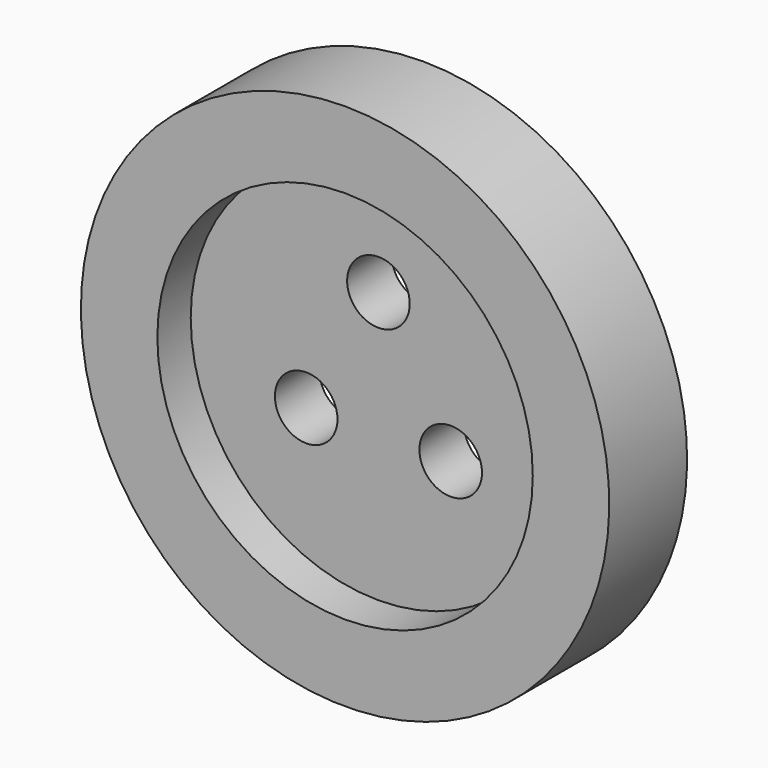
from build123d import *

# Parameters (mm, degrees)
F3_D = 4.5


with BuildPart() as f1:
    # F0 (on Right) → F1 (revolve)
    with BuildSketch(Plane.YZ):
        Polygon((7, 19), (0, 19), (0, 13.5), (3, 13.5), (3, 0), (7, 0), align=None)
    revolve(axis=Axis((0, 5, 0), (0, 1, 0)))

    # F3 (through all)
    with Locations(Plane(origin=(0, 7, 0), x_dir=(-1, 0, 0), z_dir=(0, 1, 0))):
        with Locations((0, 6), (-5.196152, -3), (5.196152, -3)):
            Hole(F3_D / 2)


solid = f1.part
